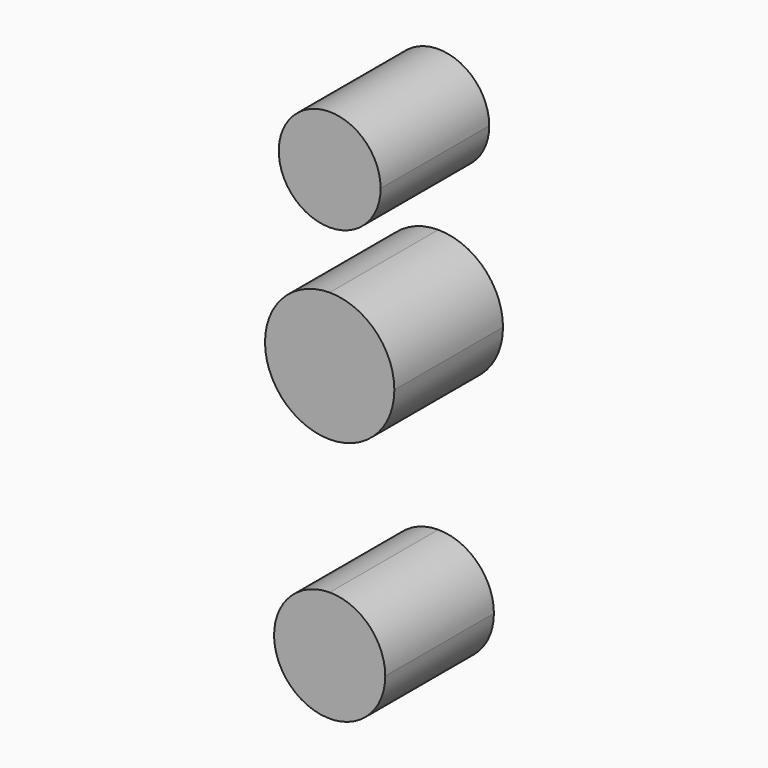
from build123d import *

# Parameters (mm, degrees)
F1_DEPTH = 25.4


with BuildPart() as f1:
    # F0 (on Front) → F1 (new body)
    with BuildSketch(Plane.XZ):
        with BuildLine():
            ThreePointArc((10.395899, 0), (7.351011, 7.351011), (0, 10.395899))
            Line((0, 10.395899), (0, 0))
            Line((0, 0), (10.395899, 0))
        make_face()
        with BuildLine():
            Line((0, 0), (0, 10.395899))
            ThreePointArc((0, 10.395899), (-7.351011, -7.351011), (10.395899, 0))
            Line((10.395899, 0), (0, 0))
        make_face()
        with BuildLine():
            ThreePointArc((12.094376, 47.678633), (8.552015, 56.230648), (0, 59.773009))
            Line((0, 59.773009), (0, 35.584257))
            ThreePointArc((0, 35.584257), (8.552015, 39.126618), (12.094376, 47.678633))
        make_face()
        with BuildLine():
            Line((0, 35.584257), (0, 59.773009))
            ThreePointArc((0, 59.773009), (-12.094376, 47.678633), (0, 35.584257))
        make_face()
        with BuildLine():
            ThreePointArc((9.525, 80.014958), (-6.735192, 86.75015), (0, 70.489958))
            ThreePointArc((0, 70.489958), (6.735192, 73.279766), (9.525, 80.014958))
        make_face()
    extrude(amount=F1_DEPTH)


solid = f1.part
